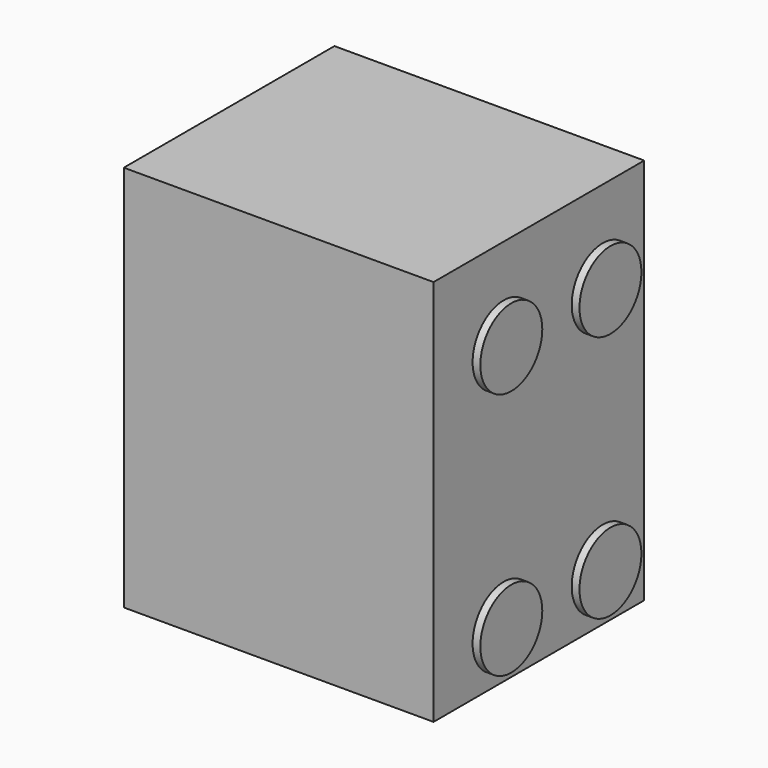
from build123d import *

# Parameters (mm, degrees)
F0_W     = 63.5
F0_H     = 79.375
F1_DEPTH = 53.975
F2_R     = 1.5875
F3_DEPTH = 3.175
F4_R     = 7.9375
F5_DEPTH = 1.5875
F6_R     = 4.7625
F7_DEPTH = 12.7


with BuildPart() as f1:
    # F0 (on Front) → F1 (new body)
    with BuildSketch(Plane.XZ):
        Rectangle(F0_W, F0_H)
    extrude(amount=F1_DEPTH)

    # F2 (on face) → F3 (join)
    with BuildSketch(Plane.YZ.offset(31.75)):
        with Locations((-40.005, 23.8125)):
            Circle(F2_R)
        with Locations((-40.005, -26.9875)):
            Circle(F2_R)
        with Locations((-14.605, 23.8125)):
            Circle(F2_R)
        with Locations((-14.605, -26.9875)):
            Circle(F2_R)
    extrude(amount=F3_DEPTH)

    # F4 (on face) → F5 (join)
    with BuildSketch(Plane.YZ.offset(34.925)):
        with Locations((-40.005, 23.8125)):
            Circle(F4_R)
        with Locations((-14.605, 23.8125)):
            Circle(F4_R)
        with Locations((-40.005, -26.9875)):
            Circle(F4_R)
        with Locations((-14.605, -26.9875)):
            Circle(F4_R)
    extrude(amount=F5_DEPTH)

    # F6 (on face) → F7 (join)
    with BuildSketch(Plane(origin=(-31.75, 0, 0), x_dir=(0, -1, 0), z_dir=(-1, 0, 0))):
        with Locations((26.9875, -7.9375)):
            Circle(F6_R)
    extrude(amount=F7_DEPTH)


solid = f1.part
